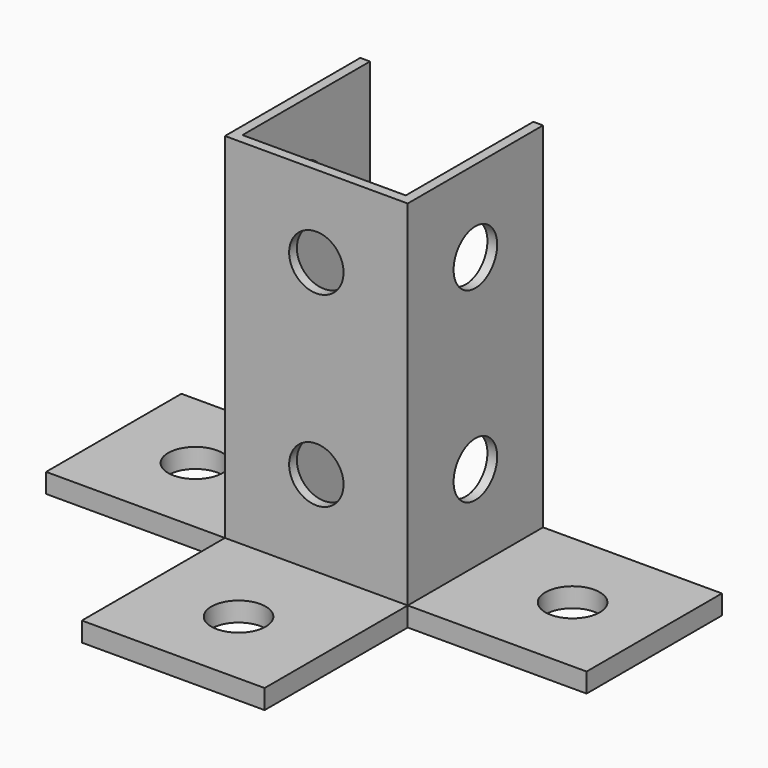
from build123d import *

# Parameters (mm, degrees)
F1_DEPTH = 96
F2_W     = 43.5
F2_H     = 5
F3_DEPTH = 46
F4_W     = 47
F4_H     = 5
F5_DEPTH = 46
F6_W     = 43.5
F6_H     = 5
F7_DEPTH = 46
F9_D     = 14
F11_D    = 14
F13_D    = 14


with BuildPart() as f1:
    # F0 (on Top) → F1 (new body)
    with BuildSketch(Plane.XY):
        Polygon((-21, -21.505648), (-21, 19.494352), (-23.5, 19.494352), (-23.5, -24.005648), (23.5, -24.005648), (23.5, 19.494352), (21, 19.494352), (21, -21.505648), align=None)
    extrude(amount=F1_DEPTH)

    # F2 (on face) → F3 (join)
    with BuildSketch(Plane.YZ.offset(23.5)):
        with Locations((-2.255648, 2.5)):
            Rectangle(F2_W, F2_H)
    extrude(amount=F3_DEPTH)

    # F4 (on face) → F5 (join)
    with BuildSketch(Plane.XZ.offset(24.005648)):
        with Locations((0, 2.5)):
            Rectangle(F4_W, F4_H)
    extrude(amount=F5_DEPTH)

    # F6 (on face) → F7 (join)
    with BuildSketch(Plane(origin=(-23.5, 0, 0), x_dir=(0, -1, 0), z_dir=(-1, 0, 0))):
        with Locations((2.255648, 2.5)):
            Rectangle(F6_W, F6_H)
    extrude(amount=F7_DEPTH)

    # F9 (through all)
    with Locations(Plane.XY.offset(5)):
        with Locations((-48.5, -2.255648), (0, -49.005648), (48.5, -2.255648)):
            Hole(F9_D / 2)

    # F11 (through all)
    with Locations(Plane.XZ.offset(24.005648)):
        with Locations((0, 75), (0, 27)):
            Hole(F11_D / 2)

    # F13 (through all)
    with Locations(Plane.YZ.offset(23.5)):
        with Locations((-2.255648, 75), (-2.255648, 27)):
            Hole(F13_D / 2)


solid = f1.part
